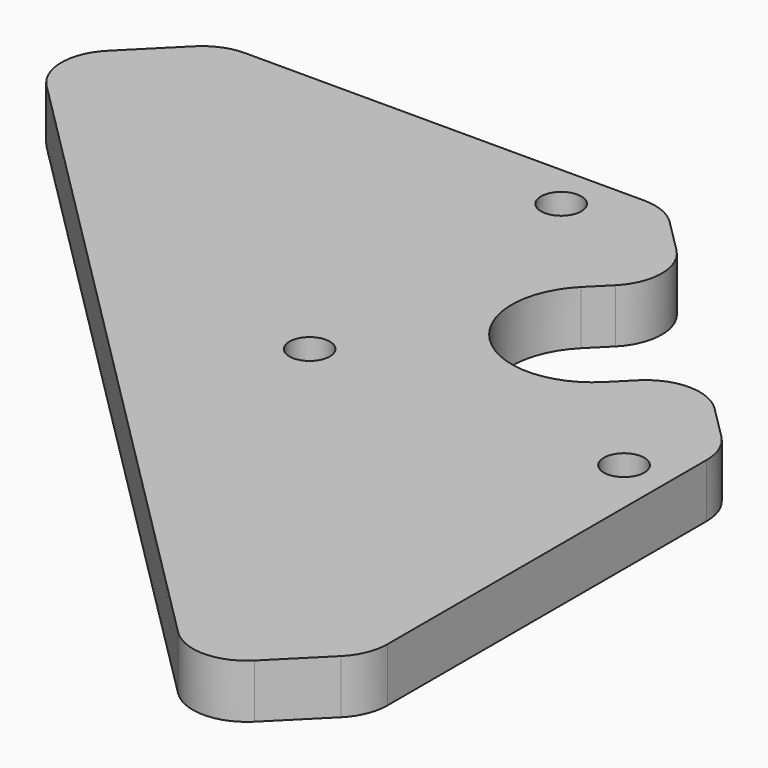
from build123d import *

# Parameters (mm, degrees)
SKETCH104_R  = 1.5
PAD053_DEPTH = 4
FILLET082_R  = 4


with BuildPart() as part:
    # Sketch104 → Pad053 (new body)
    with BuildSketch(Plane.XY):
        with BuildLine():
            Line((8.485281, 0), (15, -6.514719))
            Line((15, -39.447222), (15, -6.514719))
            Line((7.424621, -47.022601), (15, -39.447222))
            Line((-47.022601, 7.424621), (7.424621, -47.022601))
            Line((-39.447222, 15), (-47.022601, 7.424621))
            Line((-6.514719, 15), (-39.447222, 15))
            Line((-6.514719, 15), (0, 8.485281))
            Line((0, 8.485281), (-4.242641, 4.242641))
            ThreePointArc((-4.242641, 4.242641), (-4.242641, -4.242641), (4.242641, -4.242641))
            Line((4.242641, -4.242641), (8.485281, 0))
        make_face()
        with Locations((-11.667262, 11.667262)):
            Circle(SKETCH104_R, mode=Mode.SUBTRACT)
        with Locations((-11.667262, -11.667262)):
            Circle(SKETCH104_R, mode=Mode.SUBTRACT)
        with Locations((11.667262, -11.667262)):
            Circle(SKETCH104_R, mode=Mode.SUBTRACT)
    extrude(amount=PAD053_DEPTH)

    # Fillet082
    fillet082_edges = [part.edges().sort_by_distance(p)[0] for p in [
        (7.424621, -47.022601, 2),
        (15, -39.447222, 2),
        (-47.022601, 7.424621, 2),
        (-39.447222, 15, 2),
        (15, -6.514719, 2),
        (-6.514719, 15, 2),
        (8.485281, 0, 2),
        (0, 8.485281, 2),
    ]]
    fillet(fillet082_edges, radius=FILLET082_R)


with BuildPart() as part_1:
    # Body019 placement: moved
    add(part.part.moved(Location((0, 0, 236))))


solid = part_1.part
